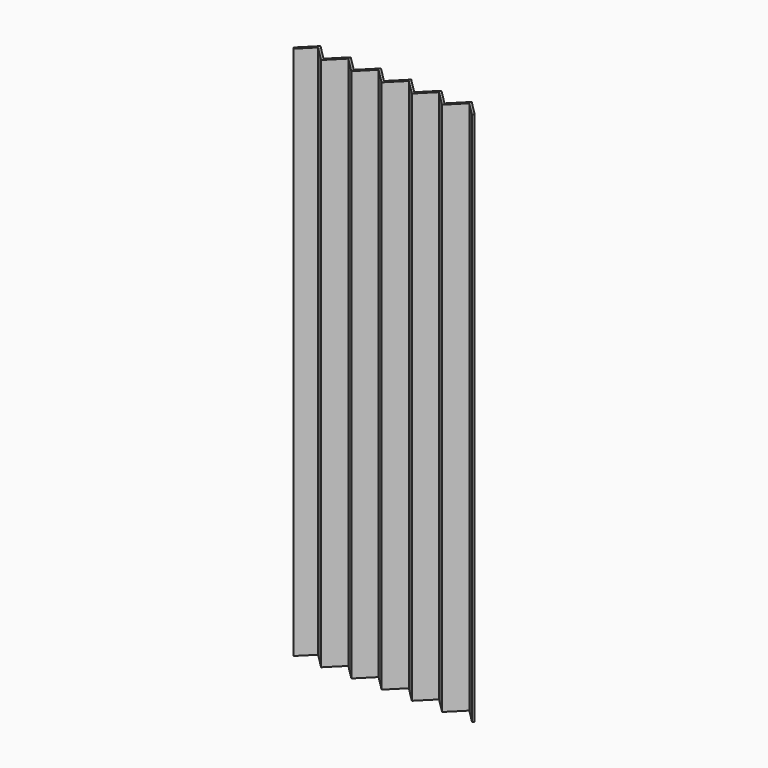
from build123d import *

# Parameters (mm, degrees)
F1_DEPTH = 250


with BuildPart() as f1:
    # F0 (on Top) → F1 (new body)
    with BuildSketch(Plane.XY):
        Polygon((-46.410759, 7.071068), (-53.481827, 0), (-52.77472, -0.707107), (-46.410759, 5.656854), (-39.339692, -1.414214), (-32.268624, 5.656854), (-25.197556, -1.414214), (-18.126488, 5.656854), (-11.05542, -1.414214), (-3.984352, 5.656854), (3.086715, -1.414214), (10.157783, 5.656854), (17.228851, -1.414214), (24.299919, 5.656854), (30.66388, -0.707107), (31.370987, 0), (24.299919, 7.071068), (17.228851, 0), (10.157783, 7.071068), (3.086715, 0), (-3.984352, 7.071068), (-11.05542, 0), (-18.126488, 7.071068), (-25.197556, 0), (-32.268624, 7.071068), (-39.339692, 0), align=None)
    extrude(amount=F1_DEPTH)


solid = f1.part
